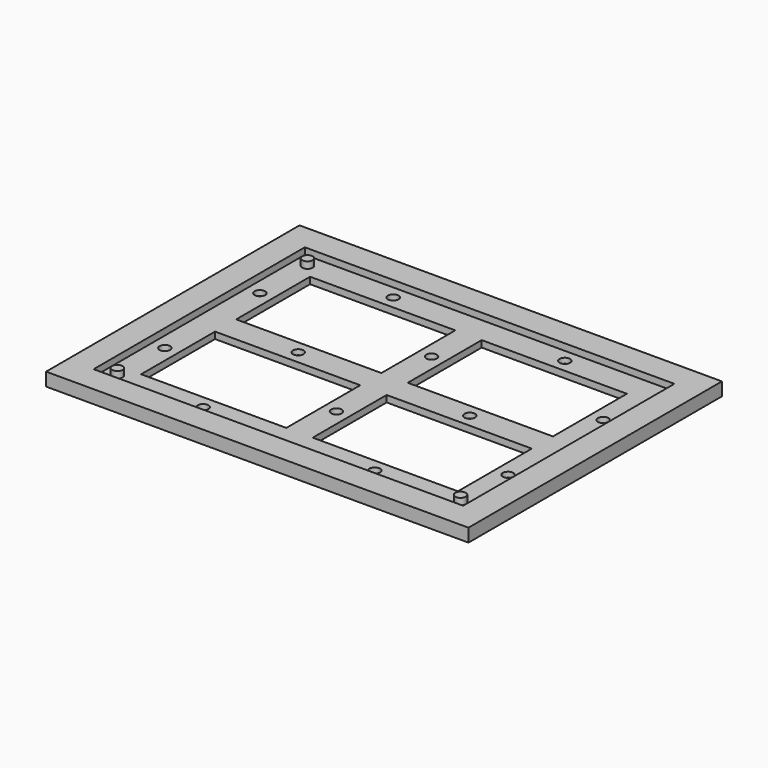
from build123d import *

# Parameters (mm, degrees)
F0_W     = 203.2
F0_H     = 152.4
F0_W_2   = 177.8
F0_H_2   = 127
F1_DEPTH = 6.35
F2_W     = 177.8
F2_H     = 127
F2_W_2   = 69.85
F2_H_2   = 44.45
F3_DEPTH = 3.175
F4_R     = 2.54
F5_DEPTH = 3.175
F6_R     = 2.54
F7_DEPTH = 2.54


with BuildPart() as f1:
    # F0 (on Top) → F1 (new body)
    with BuildSketch(Plane.XY):
        with Locations((101.6, 76.2)):
            Rectangle(F0_W, F0_H)
        with Locations((101.6, 76.2)):
            Rectangle(F0_W_2, F0_H_2, mode=Mode.SUBTRACT)
    extrude(amount=F1_DEPTH)

    # F2 (on Top) → F3 (join)
    with BuildSketch(Plane.XY):
        with Locations((101.6, 76.2)):
            Rectangle(F2_W, F2_H)
        with Locations((60.325, 47.625)):
            Rectangle(F2_W_2, F2_H_2, mode=Mode.SUBTRACT)
        with Locations((142.875, 47.625)):
            Rectangle(F2_W_2, F2_H_2, mode=Mode.SUBTRACT)
        with Locations((60.325, 104.775)):
            Rectangle(F2_W_2, F2_H_2, mode=Mode.SUBTRACT)
        with Locations((142.875, 104.775)):
            Rectangle(F2_W_2, F2_H_2, mode=Mode.SUBTRACT)
    extrude(amount=F3_DEPTH)

    # F4 (on face) → F5 (join, through all)
    with BuildSketch(Plane.XY.offset(3.175)):
        with Locations((19.05, 133.35)):
            Circle(F4_R)
        with Locations((19.05, 19.05)):
            Circle(F4_R)
        with Locations((184.15, 19.05)):
            Circle(F4_R)
    extrude(amount=F5_DEPTH)

    # F6 (on face) → F7 (cut)
    with BuildSketch(Plane.XY.offset(3.175)):
        with Locations((60.325, 133.35)):
            Circle(F6_R)
        with Locations((142.875, 133.35)):
            Circle(F6_R)
        with Locations((101.6, 47.625)):
            Circle(F6_R)
        with Locations((101.6, 104.775)):
            Circle(F6_R)
        with Locations((142.875, 76.2)):
            Circle(F6_R)
        with Locations((60.325, 19.05)):
            Circle(F6_R)
        with Locations((184.15, 47.625)):
            Circle(F6_R)
        with Locations((142.875, 19.05)):
            Circle(F6_R)
        with Locations((19.05, 47.625)):
            Circle(F6_R)
        with Locations((184.15, 104.775)):
            Circle(F6_R)
        with Locations((60.325, 76.2)):
            Circle(F6_R)
        with Locations((19.05, 104.775)):
            Circle(F6_R)
    extrude(amount=-F7_DEPTH, mode=Mode.SUBTRACT)


solid = f1.part
